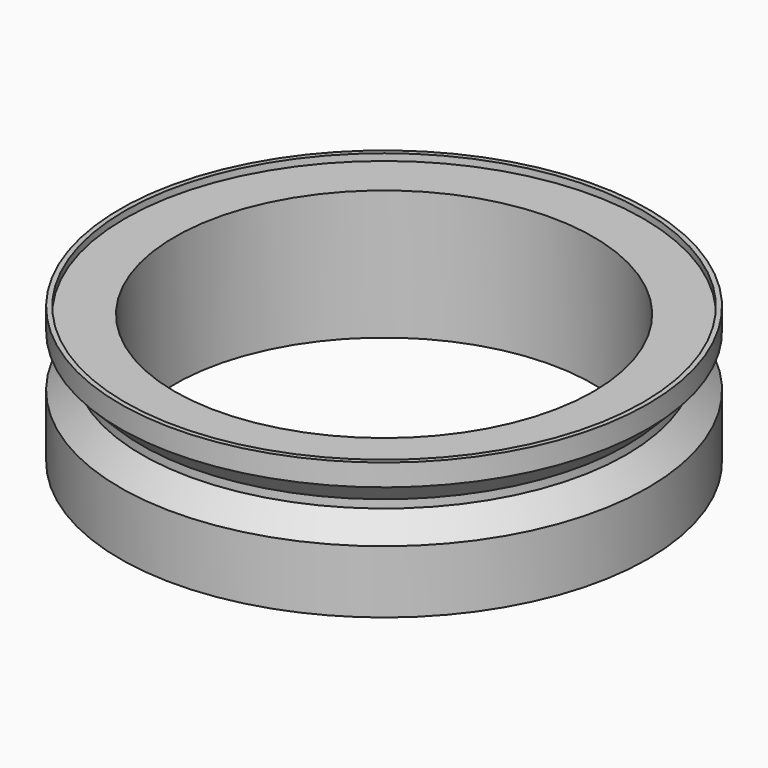
from build123d import *


with BuildPart() as part:
    # Sketch019 → Revolution (revolve)
    with BuildSketch(Plane.XZ):
        Polygon((38, 20), (38.7, 20), (38.7, 16.801219), (35.5, 13.601219), (35.5, 12.398781), (38.7, 9.198781), (38.7, 0), (30.7, 0), (30.7, 19), (38, 19), align=None)
    revolve(axis=Axis((0, 0, 0), (0, 0, 1)))


solid = part.part
